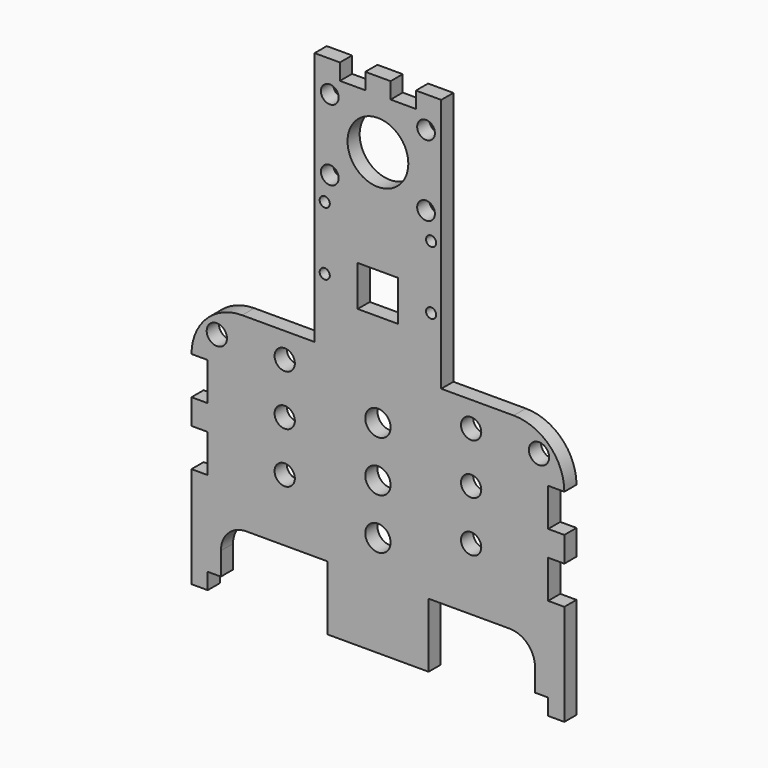
from build123d import *

# Parameters (mm, degrees)
F0_R     = 2
F0_R_2   = 2.5
F0_R_3   = 1
F0_R_4   = 1.75
F0_W     = 8
F0_H     = 8
F0_R_5   = 6
F1_DEPTH = 1.5


with BuildPart() as f1:
    # F0 (on Front) → F1 (new body, symmetric)
    with BuildSketch(Plane.XZ):
        with BuildLine():
            Line((12.5, -13.5), (12.5, 13.5))
            Line((12.5, 13.5), (12.5, 33.5))
            Line((12.5, 33.5), (12.5, 36.7))
            Line((12.5, 36.7), (7.5, 36.7))
            Line((7.5, 36.7), (7.5, 33.5))
            Line((7.5, 33.5), (2.5, 33.5))
            Line((2.5, 33.5), (2.5, 36.7))
            Line((2.5, 36.7), (-2.5, 36.7))
            Line((-2.5, 36.7), (-2.5, 33.5))
            Line((-2.5, 33.5), (-7.5, 33.5))
            Line((-7.5, 33.5), (-7.5, 36.7))
            Line((-7.5, 36.7), (-12.5, 36.7))
            Line((-12.5, 36.7), (-12.5, 33.5))
            Line((-12.5, 33.5), (-12.5, 13.5))
            Line((-12.5, 13.5), (-12.5, -13.5))
            Line((-12.5, -13.5), (-26.8, -13.5))
            ThreePointArc((-26.8, -13.5), (-33.871068, -16.428932), (-36.8, -23.5))
            Line((-36.8, -23.5), (-33.6, -23.5))
            Line((-33.6, -23.5), (-33.6, -31))
            Line((-33.6, -31), (-36.8, -31))
            Line((-36.8, -31), (-36.8, -36))
            Line((-36.8, -36), (-33.6, -36))
            Line((-33.6, -36), (-33.6, -43.5))
            Line((-33.6, -43.5), (-36.8, -43.5))
            Line((-36.8, -43.5), (-36.8, -60.3))
            Line((-36.8, -60.3), (-36.8, -63.5))
            Line((-36.8, -63.5), (-33.6, -63.5))
            Line((-33.6, -63.5), (-33.6, -60.3))
            Line((-33.6, -60.3), (-32.5, -60.3))
            Line((-32.5, -60.3), (-31, -60.3))
            Line((-31, -60.3), (-31, -55.8))
            ThreePointArc((-31, -55.8), (-29.535534, -52.264466), (-26, -50.8))
            Line((-26, -50.8), (-10, -50.8))
            Line((-10, -50.8), (-10, -60.3))
            Line((-10, -60.3), (-10, -63.5))
            Line((-10, -63.5), (10, -63.5))
            Line((10, -63.5), (10, -60.3))
            Line((10, -60.3), (10, -50.8))
            Line((10, -50.8), (26, -50.8))
            ThreePointArc((26, -50.8), (29.535534, -52.264466), (31, -55.8))
            Line((31, -55.8), (31, -60.3))
            Line((31, -60.3), (32.5, -60.3))
            Line((32.5, -60.3), (33.6, -60.3))
            Line((33.6, -60.3), (33.6, -63.5))
            Line((33.6, -63.5), (36.8, -63.5))
            Line((36.8, -63.5), (36.8, -60.3))
            Line((36.8, -60.3), (36.8, -43.5))
            Line((36.8, -43.5), (33.6, -43.5))
            Line((33.6, -43.5), (33.6, -36))
            Line((33.6, -36), (36.8, -36))
            Line((36.8, -36), (36.8, -31))
            Line((36.8, -31), (33.6, -31))
            Line((33.6, -31), (33.6, -23.5))
            Line((33.6, -23.5), (36.8, -23.5))
            ThreePointArc((36.8, -23.5), (33.871068, -16.428932), (26.8, -13.5))
            Line((26.8, -13.5), (12.5, -13.5))
        make_face()
        with Locations((-18.4, -38.5)):
            Circle(F0_R, mode=Mode.SUBTRACT)
        with Locations((-31.8, -18.5)):
            Circle(F0_R, mode=Mode.SUBTRACT)
        with Locations((-18.4, -28.5)):
            Circle(F0_R, mode=Mode.SUBTRACT)
        with Locations((-18.4, -18.5)):
            Circle(F0_R, mode=Mode.SUBTRACT)
        with Locations((0, -43.5)):
            Circle(F0_R_2, mode=Mode.SUBTRACT)
        with Locations((18.4, -38.5)):
            Circle(F0_R, mode=Mode.SUBTRACT)
        with Locations((0, -33.5)):
            Circle(F0_R_2, mode=Mode.SUBTRACT)
        with Locations((0, -23.5)):
            Circle(F0_R_2, mode=Mode.SUBTRACT)
        with Locations((18.4, -28.5)):
            Circle(F0_R, mode=Mode.SUBTRACT)
        with Locations((18.4, -18.5)):
            Circle(F0_R, mode=Mode.SUBTRACT)
        with Locations((31.8, -18.5)):
            Circle(F0_R, mode=Mode.SUBTRACT)
        with Locations((-10.5, -1)):
            Circle(F0_R_3, mode=Mode.SUBTRACT)
        with Locations((-10.5, 11.5)):
            Circle(F0_R_3, mode=Mode.SUBTRACT)
        with Locations((-9.5, 16.5)):
            Circle(F0_R_4, mode=Mode.SUBTRACT)
        with Locations((-9.5, 30.5)):
            Circle(F0_R_4, mode=Mode.SUBTRACT)
        with Locations((0, -1)):
            Rectangle(F0_W, F0_H, mode=Mode.SUBTRACT)
        with Locations((10.5, -1)):
            Circle(F0_R_3, mode=Mode.SUBTRACT)
        with Locations((10.5, 11.5)):
            Circle(F0_R_3, mode=Mode.SUBTRACT)
        with Locations((0, 23.5)):
            Circle(F0_R_5, mode=Mode.SUBTRACT)
        with Locations((9.5, 16.5)):
            Circle(F0_R_4, mode=Mode.SUBTRACT)
        with Locations((9.5, 30.5)):
            Circle(F0_R_4, mode=Mode.SUBTRACT)
    extrude(amount=F1_DEPTH, both=True)


solid = f1.part
